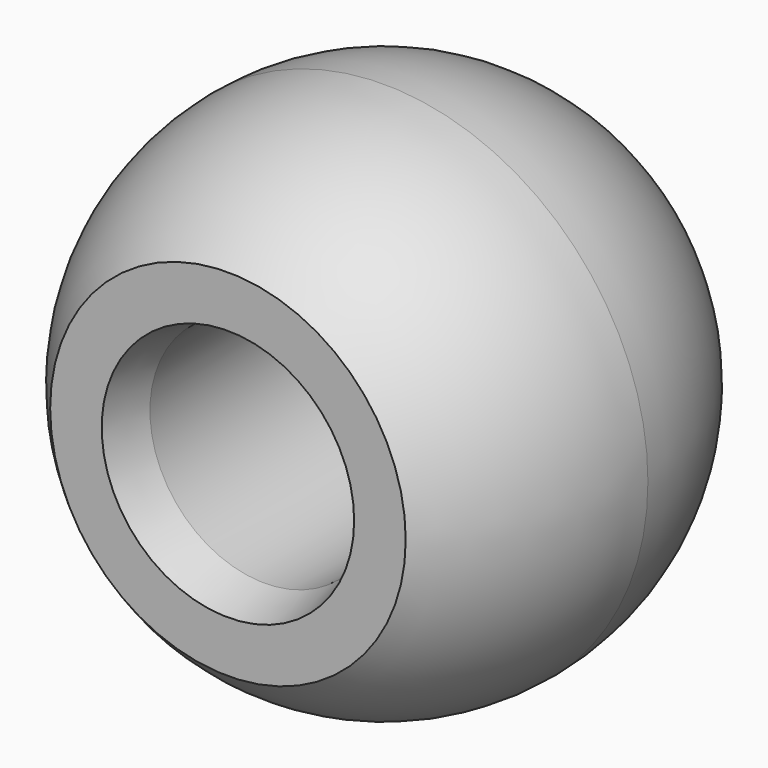
from build123d import *

# Parameters (mm, degrees)
F3_R     = 5
F4_DEPTH = 15
F5_R     = 8.305738
F6_DEPTH = 3
F7_SIZE2 = 2
F7_SIZE  = 0.5


with BuildPart() as f1:
    # F0 (on Top) → F1 (revolve)
    with BuildSketch(Plane.XY):
        with BuildLine():
            ThreePointArc((0, -11.5), (8.131728, -8.131728), (11.5, 0))
            ThreePointArc((11.5, 0), (8.131728, 8.131728), (0, 11.5))
            Line((0, 11.5), (0, -11.5))
        make_face()
    revolve(axis=Axis((0, -5.406174, 0), (0, -1, 0)))

    # F3 (on face) → F4 (cut)
    with BuildSketch(Plane.XZ.offset(11.5)):
        Circle(F3_R)
    extrude(amount=-F4_DEPTH, mode=Mode.SUBTRACT)

    # F5 (on face) → F6 (cut)
    with BuildSketch(Plane.XZ.offset(11.5)):
        Circle(F5_R)
    extrude(amount=-F6_DEPTH, mode=Mode.SUBTRACT)

    # F7
    f7_edges = [f1.edges().sort_by_distance(p)[0] for p in [
        (-5, -8.5, 0),
    ]]
    chamfer(f7_edges, length=F7_SIZE, length2=F7_SIZE2)


solid = f1.part
